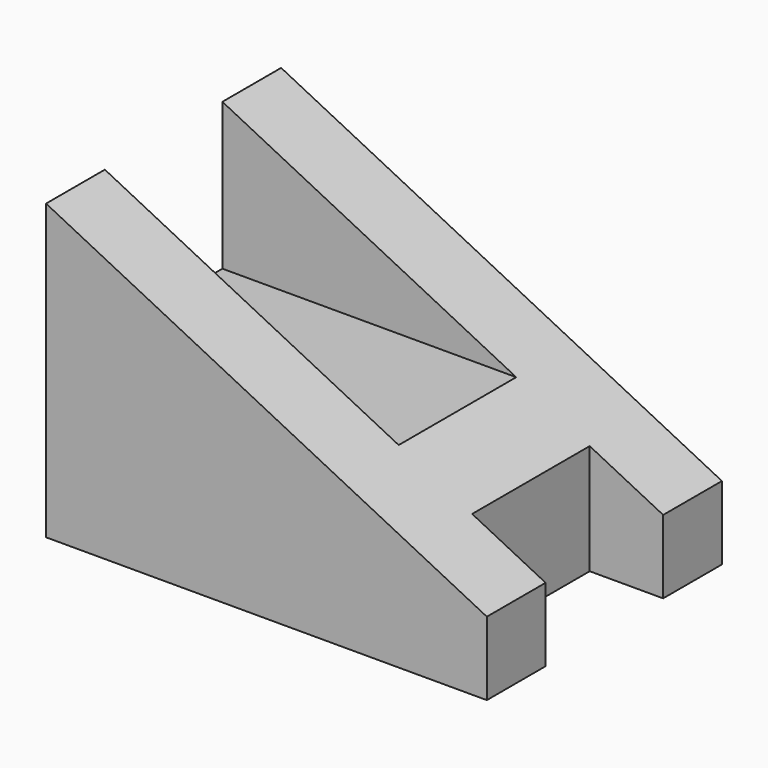
from build123d import *

# Parameters (mm, degrees)
F1_DEPTH = 10
F2_W     = 5
F2_H     = 10
F3_DEPTH = 8
F4_W     = 10
F4_H     = 10
F5_DEPTH = 20


with BuildPart() as f1:
    # F0 (on Front) → F1 (new body, symmetric)
    with BuildSketch(Plane.XZ):
        Polygon((0, 20), (0, 0), (30, 0), (30, 5), align=None)
    extrude(amount=F1_DEPTH, both=True)

    # F2 (on Top) → F3 (cut)
    with BuildSketch(Plane.XY):
        with Locations((27.5, 0)):
            Rectangle(F2_W, F2_H)
    extrude(amount=F3_DEPTH, mode=Mode.SUBTRACT)

    # F4 (on Right) → F5 (cut)
    with BuildSketch(Plane.YZ):
        with Locations((0, 15)):
            Rectangle(F4_W, F4_H)
    extrude(amount=F5_DEPTH, mode=Mode.SUBTRACT)


solid = f1.part
